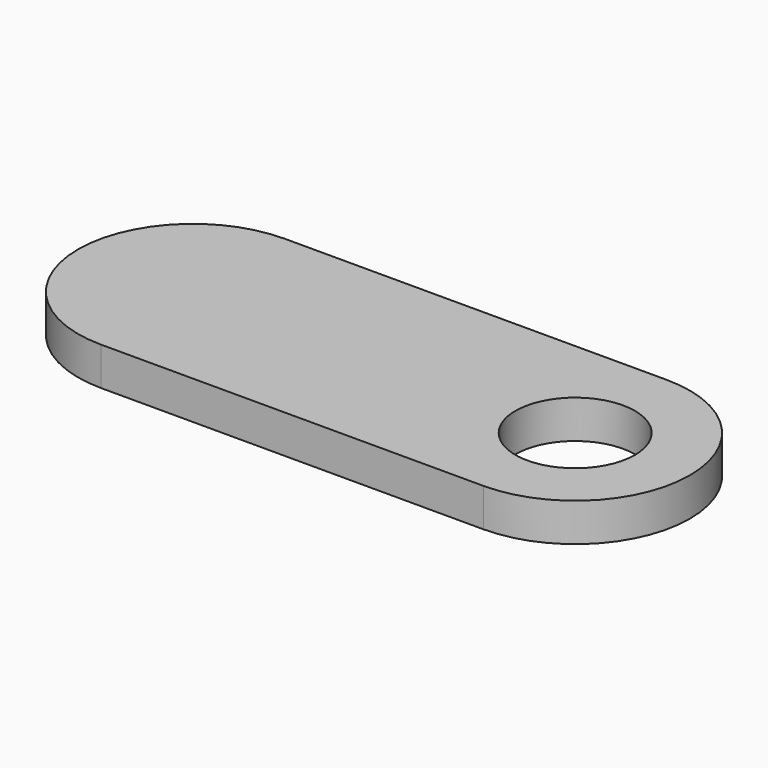
from build123d import *

# Parameters (mm, degrees)
SKETCH_R  = 6.25
PAD_DEPTH = 4


with BuildPart() as part:
    # Sketch → Pad (new body)
    with BuildSketch(Plane.XY):
        with BuildLine():
            ThreePointArc((0, -12), (12, 0), (0, 12))
            Line((-40.000032, 12), (0, 12))
            ThreePointArc((-40.000032, 12), (-52, 0), (-40.000032, -12))
            Line((-40.000032, -12), (0, -12))
        make_face()
        Circle(SKETCH_R, mode=Mode.SUBTRACT)
    extrude(amount=PAD_DEPTH)


solid = part.part
